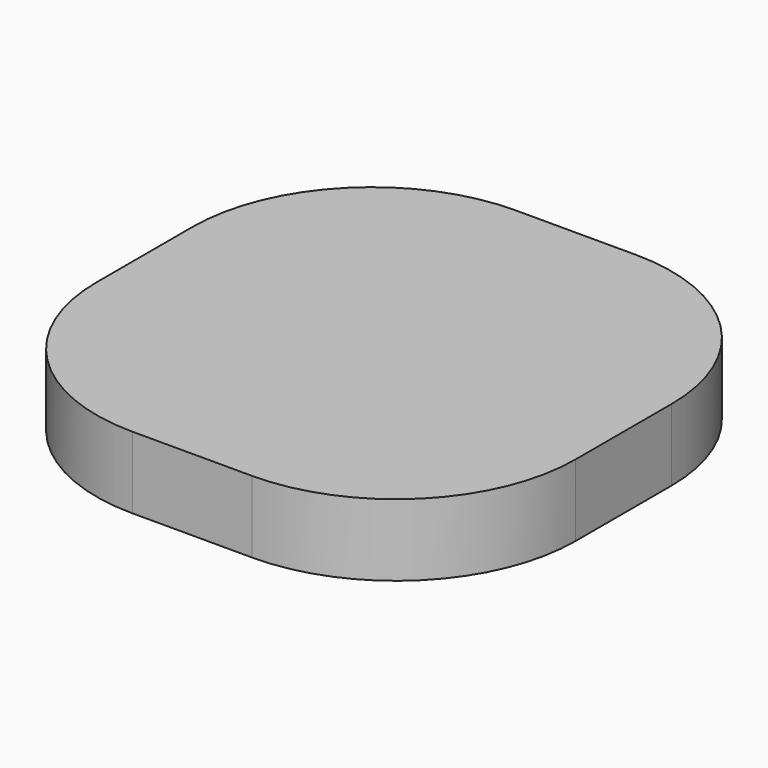
from build123d import *

# Parameters (mm, degrees)
F0_W     = 40
F0_H     = 40
F1_DEPTH = 6
F2_R     = 15
F3_R     = 1.5
F4_DEPTH = 2


with BuildPart() as f1:
    # F0 (on Top) → F1 (new body)
    with BuildSketch(Plane.XY):
        Rectangle(F0_W, F0_H)
    extrude(amount=F1_DEPTH)

    # F2
    f2_edges = [f1.edges().sort_by_distance(p)[0] for p in [
        (-20, 20, 3),
        (20, 20, 3),
        (20, -20, 3),
        (-20, -20, 3),
    ]]
    fillet(f2_edges, radius=F2_R)

    # F3 (on face) → F4 (cut)
    with BuildSketch(Plane(origin=(0, 0, 0), x_dir=(1, 0, 0), z_dir=(0, 0, -1))):
        Circle(F3_R)
    extrude(amount=-F4_DEPTH, mode=Mode.SUBTRACT)

    # F5 (on Front) → F6 (revolve, cut)
    with BuildSketch(Plane.XZ):
        Polygon((0, 0), (0, 2), (-15, 0), align=None)
    revolve(axis=Axis((0, 0, 1), (0, 0, -1)), mode=Mode.SUBTRACT)


solid = f1.part
